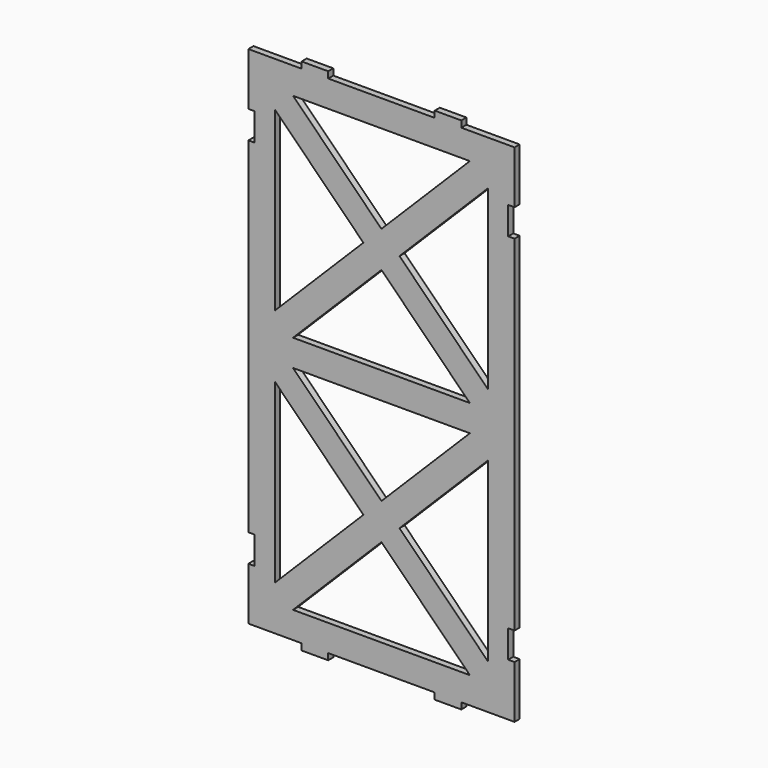
from build123d import *

# Parameters (mm, degrees)
F0_W     = 1.524
F0_H     = 25.146
F0_H_2   = 12.573
F0_W_2   = 6.35
F0_H_3   = 1.524
F0_H_4   = 6.223
F0_H_5   = 6.35
F0_H_6   = 6.604
F1_DEPTH = 1.524


with BuildPart() as f1:
    # F0 (on Front) → F1 (new body)
    with BuildSketch(Plane.XZ):
        with Locations((-30.988, 0)):
            Rectangle(F0_W, F0_H)
        with Locations((-30.988, -25.4635)):
            Rectangle(F0_W, F0_H_2)
        Polygon((30.226, 19.177), (30.226, 25.4), (25.4, 25.4), (25.4, 21.0894770619), (25.4, -21.0894770619), (25.4, -25.4), (21.0894770619, -25.4), (-21.0894770619, -25.4), (-25.4, -25.4), (-25.4, -21.0894770619), (-25.4, 21.0894770619), (-25.4, 25.4), (-30.226, 25.4), (-30.226, 19.177), (-30.226, 12.573), (-30.226, -12.573), (-30.226, -19.177), (-30.226, -31.75), (-19.05, -31.75), (-12.7, -31.75), (12.7, -31.75), (19.05, -31.75), (30.226, -31.75), (30.226, -19.177), (30.226, -12.573), (30.226, 12.573), align=None)
        Polygon((0, -4.3105229381), (-4.3105229381, 0), (-25.4, -21.0894770619), (-25.4, -25.4), (-21.0894770619, -25.4), align=None)
        Polygon((25.4, -25.4), (25.4, -21.0894770619), (4.3105229381, 0), (0, -4.3105229381), (21.0894770619, -25.4), align=None)
        Polygon((4.3105229381, 0), (0, 4.3105229381), (-4.3105229381, 0), (0, -4.3105229381), align=None)
        Polygon((25.4, 21.0894770619), (25.4, 25.4), (21.0894770619, 25.4), (0, 4.3105229381), (4.3105229381, 0), align=None)
        Polygon((-4.3105229381, 0), (0, 4.3105229381), (-21.0894770619, 25.4), (-25.4, 25.4), (-25.4, 21.0894770619), align=None)
        with Locations((15.875, -32.512)):
            Rectangle(F0_W_2, F0_H_3)
        with Locations((-15.875, -32.512)):
            Rectangle(F0_W_2, F0_H_3)
        Polygon((30.226, 25.4), (30.226, 31.75), (25.4, 31.75), (21.0894770619, 31.75), (19.05, 31.75), (12.7, 31.75), (-12.7, 31.75), (-19.05, 31.75), (-21.0894770619, 31.75), (-25.4, 31.75), (-30.226, 31.75), (-30.226, 25.4), (-25.4, 25.4), (-21.0894770619, 25.4), (-19.05, 25.4), (-12.7, 25.4), (12.7, 25.4), (19.05, 25.4), (21.0894770619, 25.4), (25.4, 25.4), align=None)
        Polygon((-21.0894770619, 31.75), (0, 52.8394770619), (-4.3105229381, 57.15), (-25.4, 36.0605229381), (-25.4, 31.75), align=None)
        Polygon((-4.3105229381, 57.15), (0, 52.8394770619), (4.3105229381, 57.15), (0, 61.4605229381), align=None)
        Polygon((21.0894770619, 31.75), (25.4, 31.75), (25.4, 36.0605229381), (4.3105229381, 57.15), (0, 52.8394770619), align=None)
        with Locations((-30.988, 22.2885)):
            Rectangle(F0_W, F0_H_4)
        with Locations((-30.988, 28.575)):
            Rectangle(F0_W, F0_H_5)
        with Locations((-30.988, 34.8615)):
            Rectangle(F0_W, F0_H_4)
        with Locations((-30.988, 15.875)):
            Rectangle(F0_W, F0_H_6)
        with Locations((-30.988, 41.275)):
            Rectangle(F0_W, F0_H_6)
        Polygon((25.4, 31.75), (30.226, 31.75), (30.226, 37.973), (30.226, 44.577), (30.226, 69.723), (30.226, 76.327), (30.226, 88.9), (19.05, 88.9), (12.7, 88.9), (-12.7, 88.9), (-19.05, 88.9), (-30.226, 88.9), (-30.226, 76.327), (-30.226, 69.723), (-30.226, 44.577), (-30.226, 37.973), (-30.226, 31.75), (-25.4, 31.75), (-25.4, 36.0605229381), (-25.4, 78.2394770619), (-25.4, 82.55), (-21.0894770619, 82.55), (21.0894770619, 82.55), (25.4, 82.55), (25.4, 78.2394770619), (25.4, 36.0605229381), align=None)
        with Locations((30.988, 0)):
            Rectangle(F0_W, F0_H)
        with Locations((30.988, -25.4635)):
            Rectangle(F0_W, F0_H_2)
        with Locations((30.988, 22.2885)):
            Rectangle(F0_W, F0_H_4)
        with Locations((30.988, 28.575)):
            Rectangle(F0_W, F0_H_5)
        with Locations((30.988, 34.8615)):
            Rectangle(F0_W, F0_H_4)
        with Locations((30.988, 41.275)):
            Rectangle(F0_W, F0_H_6)
        with Locations((30.988, 57.15)):
            Rectangle(F0_W, F0_H)
        Polygon((0, 61.4605229381), (4.3105229381, 57.15), (25.4, 78.2394770619), (25.4, 82.55), (21.0894770619, 82.55), align=None)
        Polygon((-25.4, 78.2394770619), (-4.3105229381, 57.15), (0, 61.4605229381), (-21.0894770619, 82.55), (-25.4, 82.55), align=None)
        with Locations((-30.988, 57.15)):
            Rectangle(F0_W, F0_H)
        with Locations((-30.988, 82.6135)):
            Rectangle(F0_W, F0_H_2)
        with Locations((30.988, 82.6135)):
            Rectangle(F0_W, F0_H_2)
        with Locations((30.988, 15.875)):
            Rectangle(F0_W, F0_H_6)
        with Locations((15.875, 89.662)):
            Rectangle(F0_W_2, F0_H_3)
        with Locations((-15.875, 89.662)):
            Rectangle(F0_W_2, F0_H_3)
    extrude(amount=F1_DEPTH)


solid = f1.part
